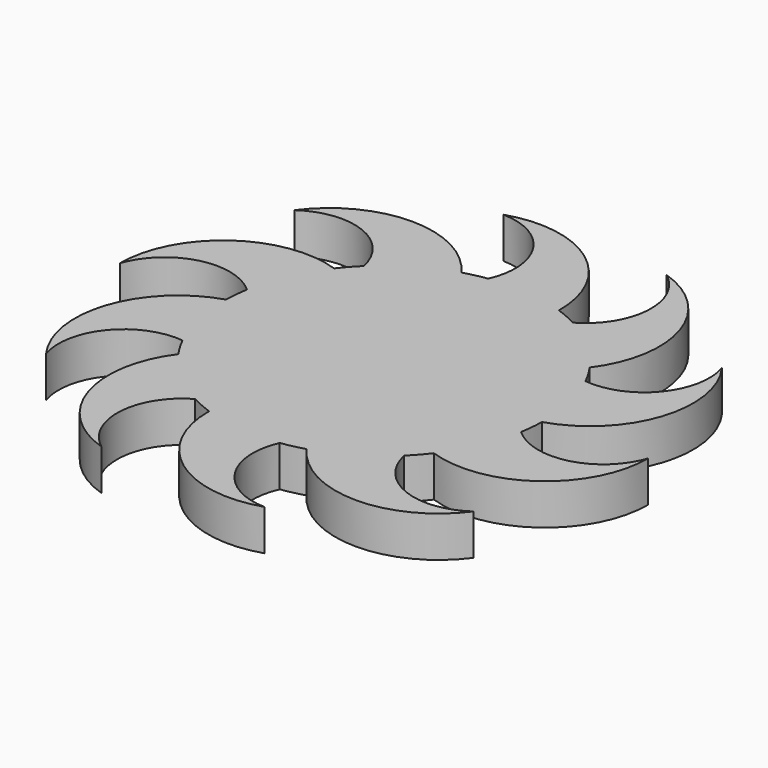
from build123d import *

# Parameters (mm, degrees)
F1_DEPTH = 10


with BuildPart() as f1:
    # F0 (on Top) → F1 (new body)
    with BuildSketch(Plane.XY):
        with BuildLine():
            ThreePointArc((-64.676278, 0), (-53.560022, 10.275162), (-38.86285, 6.649806))
            ThreePointArc((-38.86285, 6.649806), (-39.244215, 3.79902), (-39.416745, 0.928018))
            ThreePointArc((-39.416745, 0.928018), (-55.864178, -15.231576), (-52.324208, -38.015762))
            ThreePointArc((-52.324208, -38.015762), (-49.370557, -23.16901), (-35.349364, -17.463204))
            ThreePointArc((-35.349364, -17.463204), (-33.982245, -19.993699), (-32.434292, -22.417799))
            ThreePointArc((-32.434292, -22.417799), (-36.242173, -45.158744), (-19.986069, -61.510795))
            ThreePointArc((-19.986069, -61.510795), (-26.323217, -47.763408), (-18.333622, -34.905863))
            ThreePointArc((-18.333622, -34.905863), (-15.740212, -36.149505), (-13.063042, -37.200779))
            ThreePointArc((-13.063042, -37.200779), (-2.776891, -57.836806), (19.986069, -61.510795))
            ThreePointArc((19.986069, -61.510795), (6.778697, -54.113808), (5.68494, -39.015669))
            ThreePointArc((5.68494, -39.015669), (8.514047, -38.497429), (11.297846, -37.774325))
            ThreePointArc((11.297846, -37.774325), (31.74907, -48.423174), (52.324208, -38.015762))
            ThreePointArc((52.324208, -38.015762), (37.291379, -39.794572), (27.532048, -28.222816))
            ThreePointArc((27.532048, -28.222816), (29.516229, -26.140643), (31.343341, -23.919364))
            ThreePointArc((31.343341, -23.919364), (54.147965, -20.513536), (64.676278, 0))
            ThreePointArc((64.676278, 0), (53.560022, -10.275162), (38.86285, -6.649806))
            ThreePointArc((38.86285, -6.649806), (39.244215, -3.79902), (39.416745, -0.928018))
            ThreePointArc((39.416745, -0.928018), (55.864178, 15.231576), (52.324208, 38.015762))
            ThreePointArc((52.324208, 38.015762), (49.370557, 23.16901), (35.349364, 17.463204))
            ThreePointArc((35.349364, 17.463204), (33.982245, 19.993699), (32.434292, 22.417799))
            ThreePointArc((32.434292, 22.417799), (36.242173, 45.158744), (19.986069, 61.510795))
            ThreePointArc((19.986069, 61.510795), (26.323217, 47.763408), (18.333622, 34.905863))
            ThreePointArc((18.333622, 34.905863), (15.740212, 36.149505), (13.063042, 37.200779))
            ThreePointArc((13.063042, 37.200779), (2.776891, 57.836806), (-19.986069, 61.510795))
            ThreePointArc((-19.986069, 61.510795), (-6.778697, 54.113808), (-5.68494, 39.015669))
            ThreePointArc((-5.68494, 39.015669), (-8.514047, 38.497429), (-11.297846, 37.774325))
            ThreePointArc((-11.297846, 37.774325), (-31.74907, 48.423174), (-52.324208, 38.015762))
            ThreePointArc((-52.324208, 38.015762), (-37.291379, 39.794572), (-27.532048, 28.222816))
            ThreePointArc((-27.532048, 28.222816), (-29.516229, 26.140643), (-31.343341, 23.919364))
            ThreePointArc((-31.343341, 23.919364), (-54.147965, 20.513536), (-64.676278, 0))
        make_face()
    extrude(amount=F1_DEPTH)


solid = f1.part
